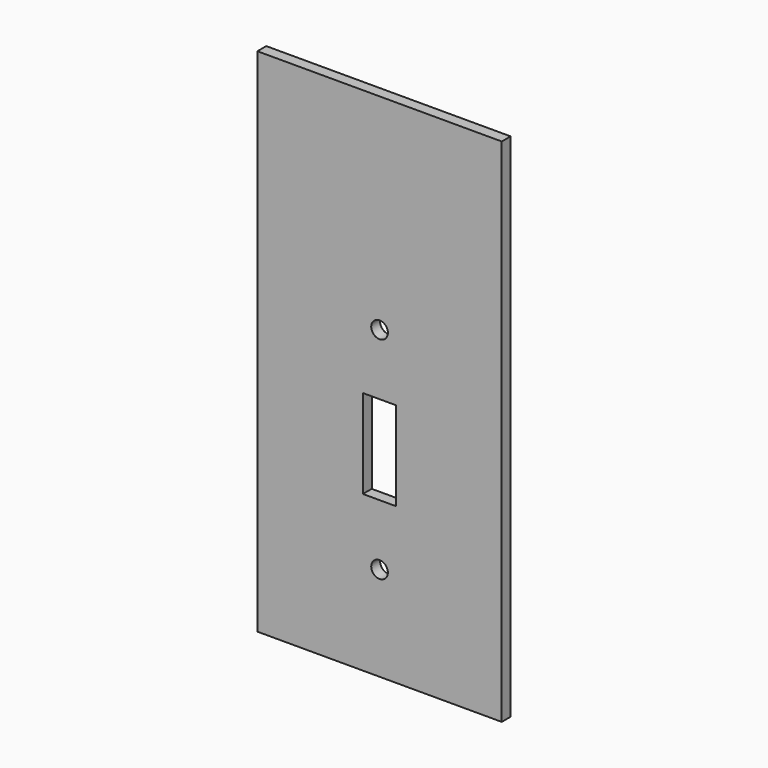
from build123d import *

# Parameters (mm, degrees)
F0_W     = 69.85
F0_H     = 114.3
F0_R     = 2.38125
F0_W_2   = 9.525
F0_H_2   = 25.4
F0_H_3   = 31.75
F1_DEPTH = 3.175


with BuildPart() as f1:
    # F0 (on Front) → F1 (new body)
    with BuildSketch(Plane.XZ):
        Rectangle(F0_W, F0_H)
        with Locations((0, -30.1625)):
            Circle(F0_R, mode=Mode.SUBTRACT)
        Rectangle(F0_W_2, F0_H_2, mode=Mode.SUBTRACT)
        with Locations((0, 30.1625)):
            Circle(F0_R, mode=Mode.SUBTRACT)
        with Locations((0, 73.025)):
            Rectangle(F0_W, F0_H_3)
    extrude(amount=F1_DEPTH)


solid = f1.part
